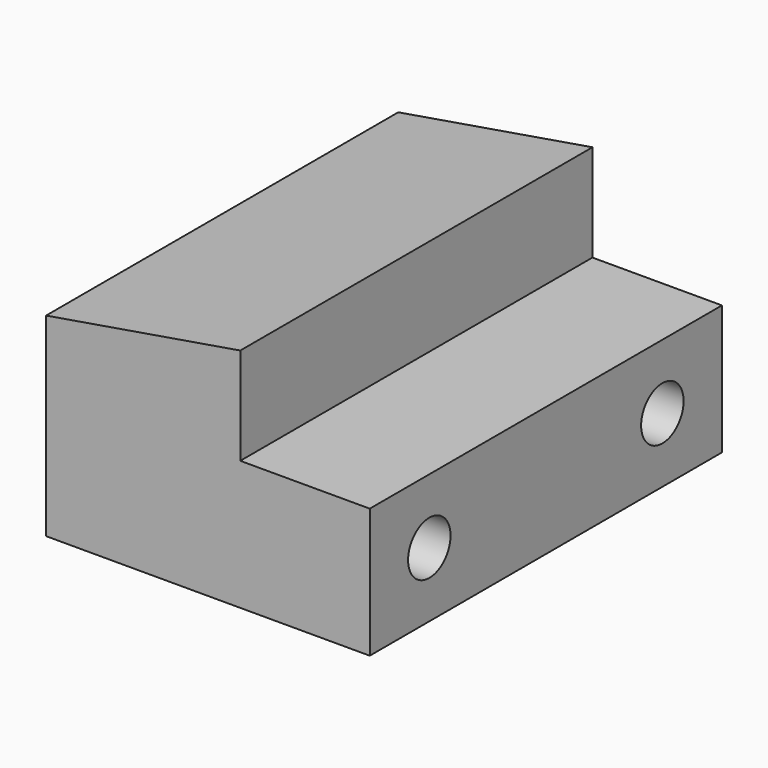
from build123d import *

# Parameters (mm, degrees)
F1_DEPTH = 34
F3_D     = 8.2


with BuildPart() as f1:
    # F0 (on Front) → F1 (new body, symmetric)
    with BuildSketch(Plane.XZ):
        Polygon((0, 30), (0, 0), (50, 0), (50, 20), (30, 20), (30, 35), align=None)
    extrude(amount=F1_DEPTH, both=True)

    # F3 (through all)
    with Locations(Plane(origin=(0, 0, 0), x_dir=(0, -1, 0), z_dir=(-1, 0, 0))):
        with Locations((-22.5, 10), (22.5, 10)):
            Hole(F3_D / 2)


solid = f1.part
